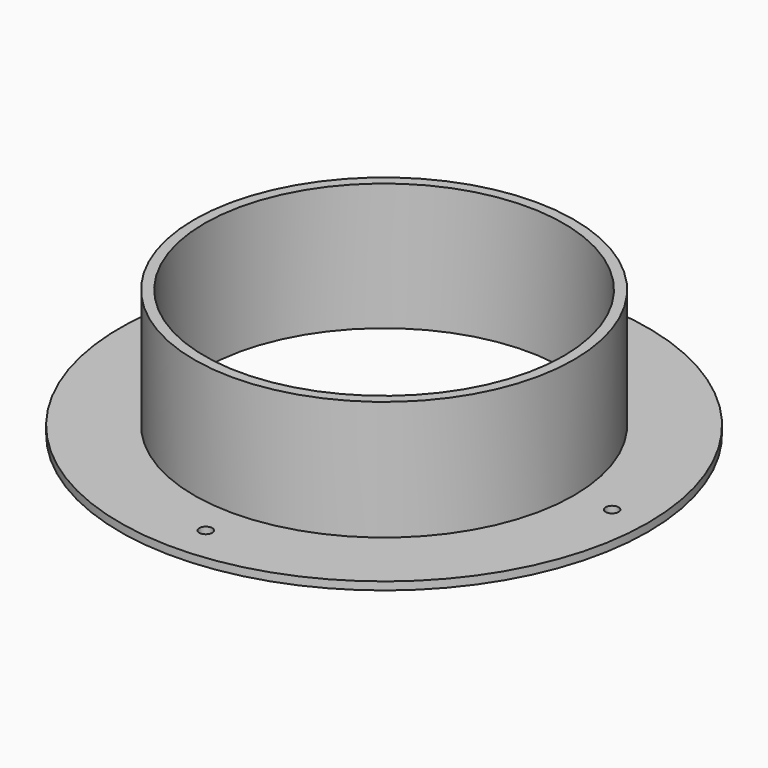
from build123d import *

# Parameters (mm, degrees)
F0_R     = 37.846
F1_DEPTH = 25.4
F2_R     = 52.625625
F3_DEPTH = 1.5875
F4_R     = 35.798125
F5_DEPTH = 25.4
F6_R     = 1.2954
F7_DEPTH = 1.5885


with BuildPart() as f1:
    # F0 (on Top) → F1 (new body)
    with BuildSketch(Plane.XY):
        Circle(F0_R)
    extrude(amount=F1_DEPTH)

    # F2 (on Top) → F3 (join)
    with BuildSketch(Plane.XY):
        Circle(F2_R)
    extrude(amount=F3_DEPTH)

    # F4 (on Top) → F5 (cut, through all)
    with BuildSketch(Plane.XY):
        Circle(F4_R)
    extrude(amount=F5_DEPTH, mode=Mode.SUBTRACT)

    # F6 (on face) → F7 (cut, through all)
    with BuildSketch(Plane.XY.offset(1.5875)):
        with Locations((45.466, 0)):
            Circle(F6_R)
        with Locations((0.460375, -45.005625)):
            Circle(F6_R)
        with Locations((-44.54525, 0)):
            Circle(F6_R)
        with Locations((0.460375, 45.005625)):
            Circle(F6_R)
    extrude(amount=-F7_DEPTH, mode=Mode.SUBTRACT)


solid = f1.part
